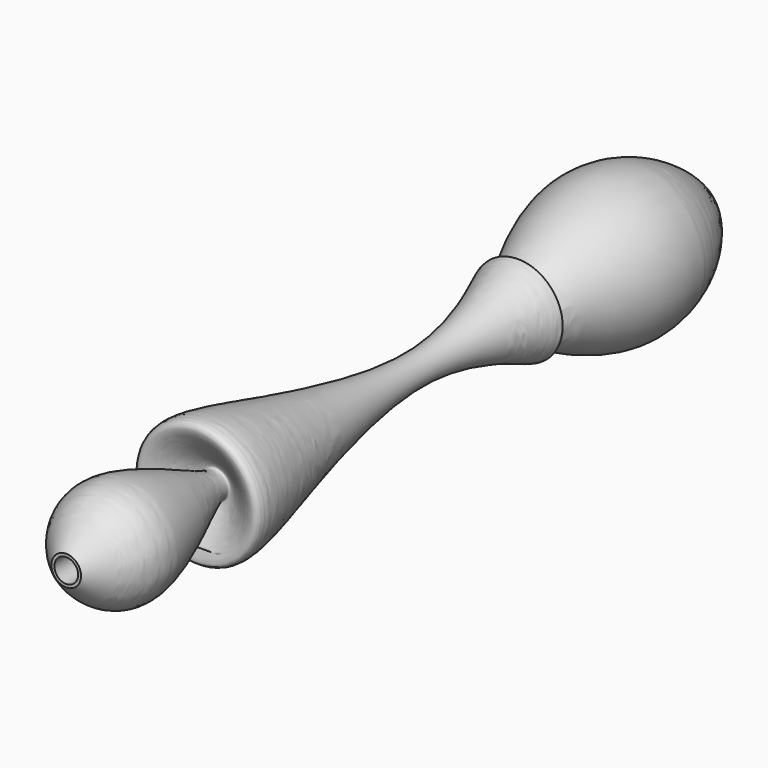
from build123d import *

# Parameters (mm, degrees)
F2_R     = 2
F3_DEPTH = 125


with BuildPart() as f1:
    # F0 (on Right) → F1 (revolve)
    with BuildSketch(Plane.YZ):
        with BuildLine():
            Line((0, 2.5), (0, 0))
            Line((0, 0), (135, 0))
            add(Edge.make_bspline(
                [(0, 2.5), (2.9538139549, 5.6318750986), (8.9841747229, 14.34671541), (38.8836804231, -3.758377312), (16.2488057763, 18.9504332913), (74.2566990272, -6.168037551), (101.0355476861, 12.2877063912), (84.5912790657, -3.3311144088), (114.0427625387, 20.7169518712), (132.4292699331, 6.3074770169), (135, 0)],
                knots=[0, 0, 0, 0, 0.1034112931, 0.2344085208, 0.3167569927, 0.5146512232, 0.6450485498, 0.7170578408, 0.8549375917, 1, 1, 1, 1], degree=3))
        make_face()
    revolve(axis=Axis((0, 67.5, 0), (0, 1, 0)))

    # F2 (on face) → F3 (cut)
    with BuildSketch(Plane.XZ):
        Circle(F2_R)
    extrude(amount=-F3_DEPTH, mode=Mode.SUBTRACT)


solid = f1.part
